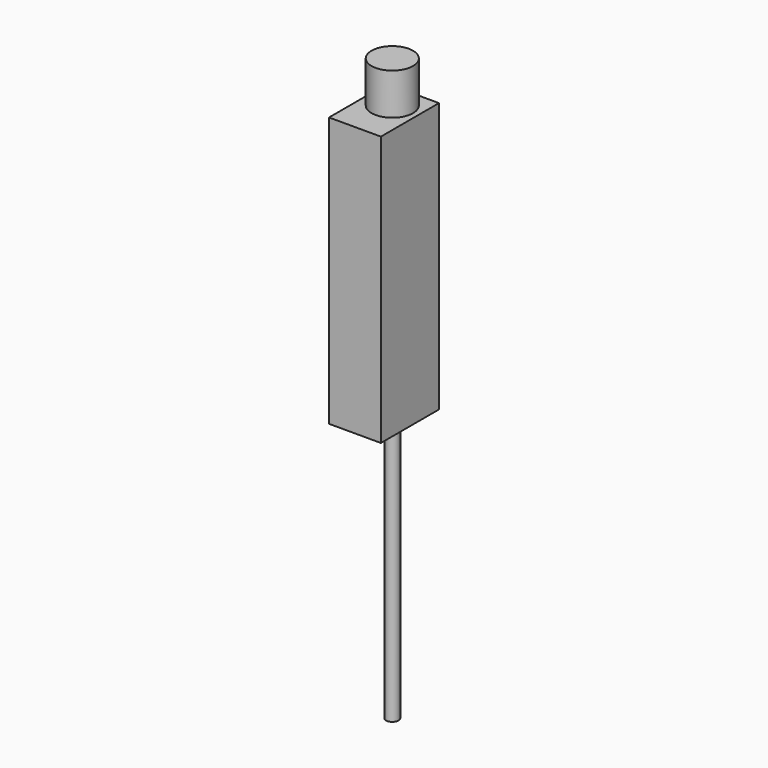
from build123d import *

# Parameters (mm, degrees)
F0_R     = 3
F3_DEPTH = 130
F4_DEPTH = 130
F5_START = 130
F2_R     = 10
F5_DEPTH = 20


with BuildPart() as f3:
    # F0 (on Top) → F3 (new body)
    with BuildSketch(Plane.XY):
        Circle(F0_R)
    extrude(amount=-F3_DEPTH)

    # F1 (on Top) → F4 (join)
    with BuildSketch(Plane.XY):
        Polygon((12.5, -12.5), (12.5, 12.5), (-12.5, 12.5), (-12.5, -12.5), (-12.5, -22.5), (12.5, -22.5), align=None)
    extrude(amount=F4_DEPTH)

    # F2 (on Top) → F5 (join)
    with BuildSketch(Plane.XY.offset(F5_START)):
        Circle(F2_R)
    extrude(amount=F5_DEPTH)


solid = f3.part
